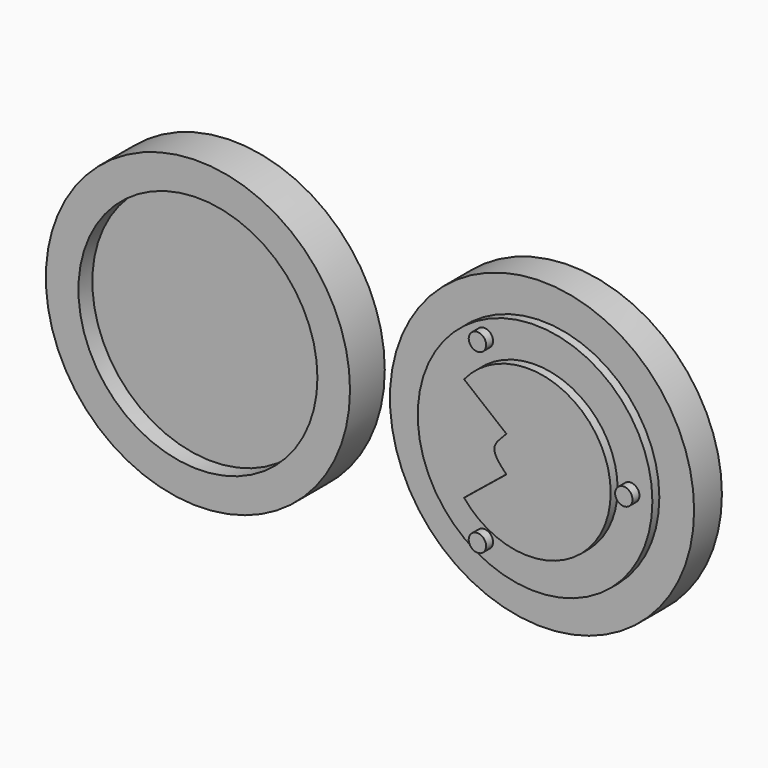
from build123d import *

# Parameters (mm, degrees)
F1_DEPTH = 6
F0_R     = 1
F0_R_2   = 13.5
F2_DEPTH = 5
F0_R_3   = 17.5
F3_DEPTH = 4
F0_R_4   = 13.75
F4_DEPTH = 3
F5_DEPTH = 5


with BuildPart() as f1:
    # F0 (on Front) → F1 (new body)
    with BuildSketch(Plane.XZ):
        with BuildLine():
            ThreePointArc((-7.3654599313, -6), (9.5, 0), (-7.3654599313, 6))
            Line((-7.3654599313, 6), (-2.5, 2.058527898))
            add(Edge.make_bspline(
                [(-2.5, 2.058527898), (-3.1436924417, 1.385275305), (-4.6090135142, 0.1602034872), (-3.1683911991, -1.3597404302), (-2.5, -2.059)],
                knots=[0, 0, 0, 0, 0.4905811714, 1, 1, 1, 1], degree=3))
            Line((-2.5, -2.059), (-7.3654599313, -6))
        make_face()
    extrude(amount=F1_DEPTH)


with BuildPart() as f1b:
    # F0 (on Front) → F1, piece 2 (new body)
    with BuildSketch(Plane.XZ):
        with Locations((-5.8326675472, 10.2962186598)):
            Circle(F0_R)
    extrude(amount=F1_DEPTH)


with BuildPart() as f1c:
    # F0 (on Front) → F1, piece 3 (new body)
    with BuildSketch(Plane.XZ):
        with Locations((-5.8326675472, -10.0715903886)):
            Circle(F0_R)
    extrude(amount=F1_DEPTH)


with BuildPart() as f1d:
    # F0 (on Front) → F1, piece 4 (new body)
    with BuildSketch(Plane.XZ):
        with Locations((11.009437716, 0.1123141356)):
            Circle(F0_R)
    extrude(amount=F1_DEPTH)


with BuildPart() as f2:
    # F0 (on Front) → F2 (new body)
    with BuildSketch(Plane.XZ):
        Circle(F0_R_2)
        with Locations((-5.8326675472, -10.0715903886)):
            Circle(F0_R, mode=Mode.SUBTRACT)
        with BuildLine():
            Line((-2.5, 2.058527898), (-7.3654599313, 6))
            ThreePointArc((-7.3654599313, 6), (9.5, 0), (-7.3654599313, -6))
            Line((-7.3654599313, -6), (-2.5, -2.059))
            add(Edge.make_bspline(
                [(-2.5, 2.058527898), (-3.1436924417, 1.385275305), (-4.6090135142, 0.1602034872), (-3.1683911991, -1.3597404302), (-2.5, -2.059)],
                knots=[0, 0, 0, 0, 0.4905811714, 1, 1, 1, 1], degree=3))
        make_face(mode=Mode.SUBTRACT)
        with Locations((11.009437716, 0.1123141356)):
            Circle(F0_R, mode=Mode.SUBTRACT)
        with Locations((-5.8326675472, 10.2962186598)):
            Circle(F0_R, mode=Mode.SUBTRACT)
    extrude(amount=F2_DEPTH)

    # F0 (on Front) → F3 (join)
    with BuildSketch(Plane.XZ):
        Circle(F0_R_3)
        Circle(F0_R_2, mode=Mode.SUBTRACT)
    extrude(amount=F3_DEPTH)


with BuildPart() as f4:
    # F0 (on Front) → F4 (new body)
    with BuildSketch(Plane.XZ):
        with Locations((-38.7926362455, 0)):
            Circle(F0_R_4)
    extrude(amount=F4_DEPTH)

    # F0 (on Front) → F5 (join)
    with BuildSketch(Plane.XZ):
        with Locations((-38.7926362455, 0)):
            Circle(F0_R_3)
        with Locations((-38.7926362455, 0)):
            Circle(F0_R_4, mode=Mode.SUBTRACT)
    extrude(amount=F5_DEPTH)


solid = Compound([f1.part, f1b.part, f1c.part, f1d.part, f2.part, f4.part])
